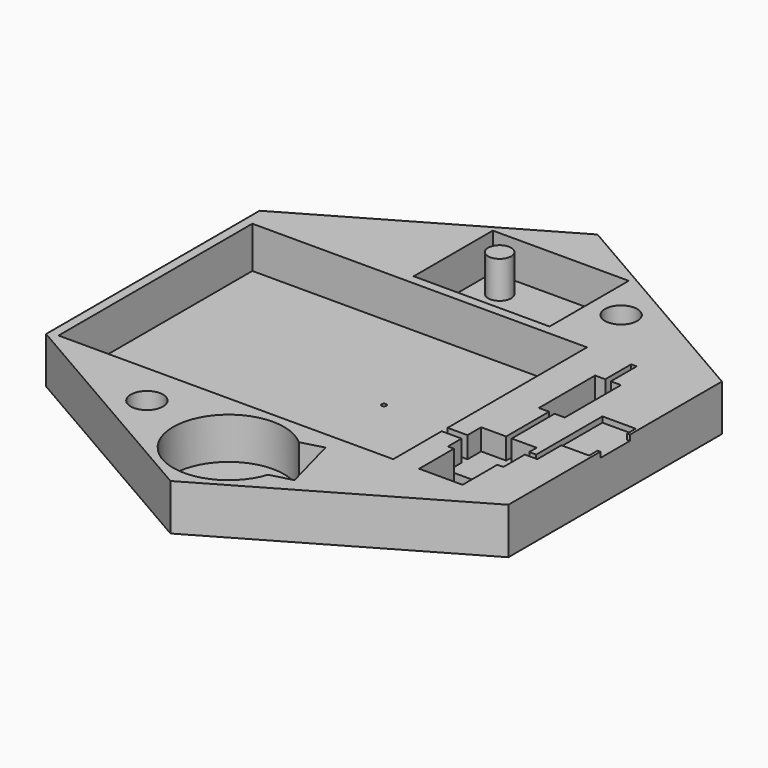
from build123d import *

# Parameters (mm, degrees)
PAD_DEPTH       = 5
SKETCH001_W     = 36.2
SKETCH001_H     = 26.2
POCKET_DEPTH    = 4.5
SKETCH002_W     = 14.7
SKETCH002_H     = 10.7
POCKET001_DEPTH = 4
SKETCH003_R     = 1.25
PAD001_DEPTH    = 4
SKETCH004_R     = 0.5
POCKET002_DEPTH = 1.001
SKETCH005_R     = 1.75
POCKET003_DEPTH = 5.001
POCKET004_DEPTH = 2.5
SKETCH007_W     = 4.7
SKETCH007_H     = 4.7
POCKET005_DEPTH = 3.7
SKETCH008_W     = 6
SKETCH008_H     = 4.5
POCKET006_DEPTH = 2.3
SKETCH009_W     = 0.6
SKETCH009_H     = 5.8
POCKET007_DEPTH = 2.3
SKETCH010_W     = 2.8
SKETCH010_H     = 7.6
POCKET008_DEPTH = 2.8
SKETCH011_W     = 0.6
SKETCH011_H     = 3.5
POCKET009_DEPTH = 2.3
SKETCH012_R     = 6
POCKET010_DEPTH = 4.5
POCKET011_DEPTH = 4.5
SKETCH014_W     = 2.15
SKETCH014_H     = 0.8
POCKET012_DEPTH = 2.3
POCKET013_DEPTH = 0.6
POCKET014_DEPTH = 1
SKETCH017_R     = 0.25
POCKET015_DEPTH = 0.501


with BuildPart() as part:
    # Sketch → Pad (new body)
    with BuildSketch(Plane.XY):
        Polygon((-25, 14.433757), (-25, -14.433757), (0, -28.867513), (25, -14.433757), (25, 14.433757), (0, 28.867513), align=None)
    extrude(amount=PAD_DEPTH)

    # Sketch001 → Pocket (cut)
    with BuildSketch(Plane.XY.offset(5)):
        with Locations((-5.9, -0.9)):
            Rectangle(SKETCH001_W, SKETCH001_H)
    extrude(amount=-POCKET_DEPTH, mode=Mode.SUBTRACT)

    # Sketch002 → Pocket001 (cut)
    with BuildSketch(Plane.XY.offset(5)):
        with Locations((0, 18.55)):
            Rectangle(SKETCH002_W, SKETCH002_H)
    extrude(amount=-POCKET001_DEPTH, mode=Mode.SUBTRACT)

    # Sketch003 → Pad001 (new body)
    with BuildSketch(Plane.XY.offset(1)):
        with Locations((-4.45, 21.2)):
            Circle(SKETCH003_R)
    extrude(amount=PAD001_DEPTH)

    # Sketch004 → Pocket002 (cut, through all)
    with BuildSketch(Plane.XY.offset(1)):
        with Locations((-3.5, 15.3)):
            Circle(SKETCH004_R)
    extrude(amount=-POCKET002_DEPTH, mode=Mode.SUBTRACT)

    # Sketch005 → Pocket003 (cut, through all)
    with BuildSketch(Plane.XY.offset(5)):
        with Locations((10.75, 18.619546)):
            Circle(SKETCH005_R)
        with Locations((-10.75, -18.619546)):
            Circle(SKETCH005_R)
    extrude(amount=-POCKET003_DEPTH, mode=Mode.SUBTRACT)

    # Sketch006 → Pocket004 (cut)
    with BuildSketch(Plane(origin=(0, 0, 0), x_dir=(1, 0, 0), z_dir=(0, 0, -1))):
        Polygon((-13.05, 17.291641), (-10.75, 15.963735), (-8.45, 17.291641), (-8.45, 19.947452), (-10.75, 21.275357), (-13.05, 19.947452), align=None)
        Polygon((10.75, -21.275357), (13.05, -19.947452), (13.05, -17.291641), (10.75, -15.963735), (8.45, -17.291641), (8.45, -19.947452), align=None)
    extrude(amount=-POCKET004_DEPTH, mode=Mode.SUBTRACT)

    # Sketch007 → Pocket005 (cut)
    with BuildSketch(Plane.XY.offset(5)):
        with Locations((17.35, -11.65)):
            Rectangle(SKETCH007_W, SKETCH007_H)
    extrude(amount=-POCKET005_DEPTH, mode=Mode.SUBTRACT)

    # Sketch008 → Pocket006 (cut)
    with BuildSketch(Plane.XY.offset(5)):
        with Locations((17.35, -7.05)):
            Rectangle(SKETCH008_W, SKETCH008_H)
    extrude(amount=-POCKET006_DEPTH, mode=Mode.SUBTRACT)

    # Sketch009 → Pocket007 (cut)
    with BuildSketch(Plane.XY.offset(5)):
        with Locations((17.35, -1.9)):
            Rectangle(SKETCH009_W, SKETCH009_H)
    extrude(amount=-POCKET007_DEPTH, mode=Mode.SUBTRACT)

    # Sketch010 → Pocket008 (cut)
    with BuildSketch(Plane.XY.offset(5)):
        with Locations((17.35, 4.8)):
            Rectangle(SKETCH010_W, SKETCH010_H)
    extrude(amount=-POCKET008_DEPTH, mode=Mode.SUBTRACT)

    # Sketch011 → Pocket009 (cut)
    with BuildSketch(Plane.XY.offset(5)):
        with Locations((17.35, 10.35)):
            Rectangle(SKETCH011_W, SKETCH011_H)
    extrude(amount=-POCKET009_DEPTH, mode=Mode.SUBTRACT)

    # Sketch012 → Pocket010 (cut)
    with BuildSketch(Plane.XY.offset(5)):
        with Locations((0, -21)):
            Circle(SKETCH012_R)
    extrude(amount=-POCKET010_DEPTH, mode=Mode.SUBTRACT)

    # Sketch013 → Pocket011 (cut)
    with BuildSketch(Plane.XY.offset(5)):
        Polygon((-0.841162, -17.860741), (6.403282, -15.919598), (8.085606, -22.198116), (0.841162, -24.139259), align=None)
    extrude(amount=-POCKET011_DEPTH, mode=Mode.SUBTRACT)

    # Sketch014 → Pocket012 (cut)
    with BuildSketch(Plane.XY.offset(5)):
        with Locations((13.275, -7.05)):
            Rectangle(SKETCH014_W, SKETCH014_H)
    extrude(amount=-POCKET012_DEPTH, mode=Mode.SUBTRACT)

    # Sketch015 → Pocket013 (cut)
    with BuildSketch(Plane.XY.offset(5)):
        Polygon((21.1, 3.15), (24.7, 3.15), (24.7, 2), (25.4, 2), (25.4, -2), (24.7, -2), (24.7, -3.15), (21.1, -3.15), align=None)
    extrude(amount=-POCKET013_DEPTH, mode=Mode.SUBTRACT)

    # Sketch016 → Pocket014 (cut)
    with BuildSketch(Plane.XY.offset(5)):
        Polygon((20.35, -5.8), (21.1, -5.8), (21.1, -3.15), (21.7, -3.15), (21.7, -6.4), (20.35, -6.4), align=None)
    extrude(amount=-POCKET014_DEPTH, mode=Mode.SUBTRACT)

    # Sketch017 → Pocket015 (cut, through all)
    with BuildSketch(Plane.XY.offset(0.5)):
        Circle(SKETCH017_R)
    extrude(amount=-POCKET015_DEPTH, mode=Mode.SUBTRACT)


solid = part.part
